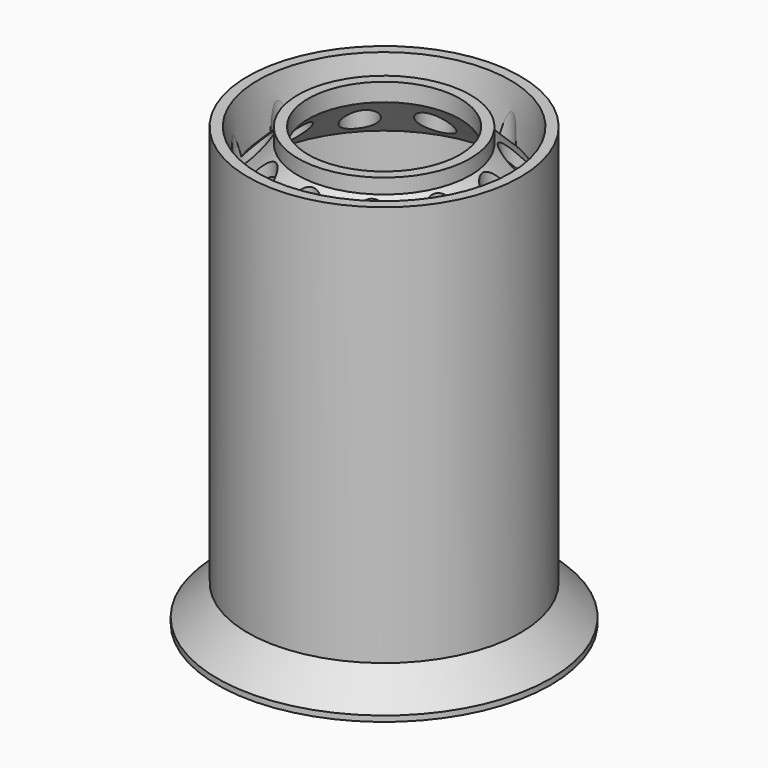
from build123d import *

# Parameters (mm, degrees)
SKETCH001_R        = 3.25
POCKET_DEPTH       = 334.98564
POLARPATTERN_COUNT = 11


with BuildPart() as part:
    # Sketch → Revolution (revolve)
    with BuildSketch(Plane.XZ):
        Polygon((14.75, 0), (14.75, 3.5), (24.9, 13.65), (24.9, 71.35), (14.75, 81.5), (14.75, 85), (16.75, 85), (16.75, 82.1), (23, 75.85), (24.5, 85), (26.5, 85), (26.5, 7), (32.4, 1.1), (32.4, 0), (29.4, 0), (23, 9.15), (16.75, 2.9), (16.75, 0), align=None)
    revolve(axis=Axis((0, 0, 0), (0, 0, 1)))

    # Sketch001 (on Face18 of Revolution) → Pocket (cut, through all)
    with BuildSketch(Plane(origin=(0, 0, 0), x_dir=(1, 0, 0), z_dir=(0, 0, -1))):
        with Locations((0, 20.5)):
            Circle(SKETCH001_R)
    pocket = extrude(amount=-POCKET_DEPTH, mode=Mode.SUBTRACT)

    # PolarPattern: Pocket ×11 about axis
    polarpattern_axis = Axis((0, 0, 0), (0, 0, -1))
    for i in range(1, POLARPATTERN_COUNT):
        add(pocket.rotate(polarpattern_axis, i * 360 / POLARPATTERN_COUNT), mode=Mode.SUBTRACT)


solid = part.part
